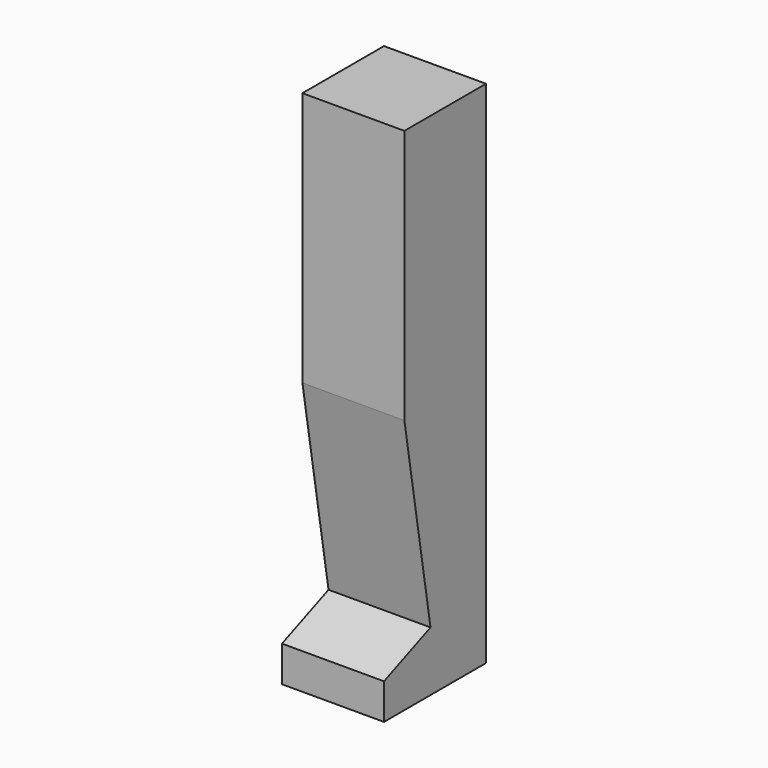
from build123d import *

# Parameters (mm, degrees)
F1_DEPTH = 25.4
F2_R     = 1.5875
F3_DEPTH = 25.4


with BuildPart() as f1:
    # F0 (on Right) → F1 (new body)
    with BuildSketch(Plane.YZ):
        Polygon((-12.7, 63.5), (-12.7, 0), (-4.571299, -48.670441), (-19.05, -54.59476), (-19.05, -63.5), (12.7, -63.5), (12.7, 0), (12.7, 63.5), align=None)
    extrude(amount=F1_DEPTH)

    # F2 (on face) → F3 (cut)
    with BuildSketch(Plane(origin=(0, 0, -63.5), x_dir=(1, 0, 0), z_dir=(0, 0, -1))):
        with Locations((12.7, 0)):
            Circle(F2_R)
    extrude(amount=-F3_DEPTH, mode=Mode.SUBTRACT)


solid = f1.part
